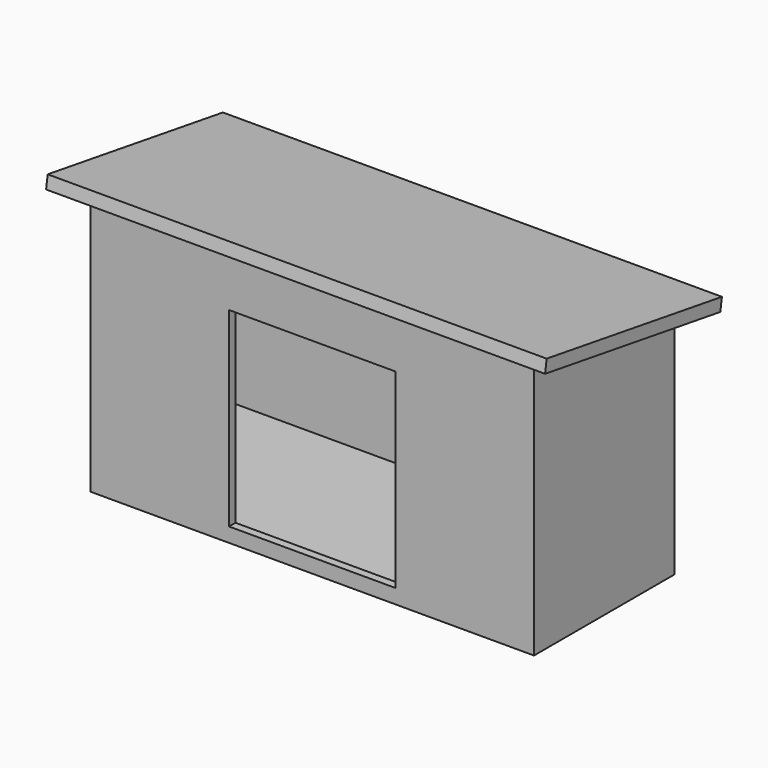
from build123d import *

# Parameters (mm, degrees)
F0_W          = 4876.8
F0_H          = 1930.4
F1_DEPTH      = 139.7
F2_W          = 4876.8
F2_H          = 1930.4
F2_W_2        = 4699
F2_H_2        = 1752.6
F3_DEPTH      = 2743.2
F5_DEPTH      = 4876.801
F7_DEPTH      = 5181.6
F7_DEPTH_BACK = 304.8
F8_W          = 1828.8
F8_H          = 2095.5
F9_DEPTH      = 304.8


with BuildPart() as f1:
    # F0 (on Top) → F1 (new body)
    with BuildSketch(Plane.XY):
        with Locations((2438.4, 965.2)):
            Rectangle(F0_W, F0_H)
    extrude(amount=F1_DEPTH)

    # F2 (on face) → F3 (join)
    with BuildSketch(Plane.XY.offset(139.7)):
        with Locations((2438.4, 965.2)):
            Rectangle(F2_W, F2_H)
        with Locations((2438.4, 965.2)):
            Rectangle(F2_W_2, F2_H_2, mode=Mode.SUBTRACT)
    extrude(amount=F3_DEPTH)

    # F4 (on face) → F5 (cut, through all)
    with BuildSketch(Plane.YZ.offset(4876.8)):
        Polygon((1930.4, 2578.1), (1930.4, 2882.9), (0, 2882.9), align=None)
    extrude(amount=-F5_DEPTH, mode=Mode.SUBTRACT)

    # F6 (on face) → F7 (join, two sides)
    with BuildSketch(Plane.YZ.offset(4876.8)) as f7_sk:
        Polygon((-228.6, 2918.9947368421), (0, 2882.9), (1930.4, 2578.1), (2179.9612146584, 2538.6955976855), (2201.7491861726, 2676.686083942), (-206.8120284858, 3056.9852230986), align=None)
    extrude(amount=-F7_DEPTH)
    extrude(f7_sk.sketch, amount=F7_DEPTH_BACK)

    # F8 (on face) → F9 (cut)
    with BuildSketch(Plane.XZ):
        with Locations((2438.4, 1206.5)):
            Rectangle(F8_W, F8_H)
    extrude(amount=-F9_DEPTH, mode=Mode.SUBTRACT)


solid = f1.part
